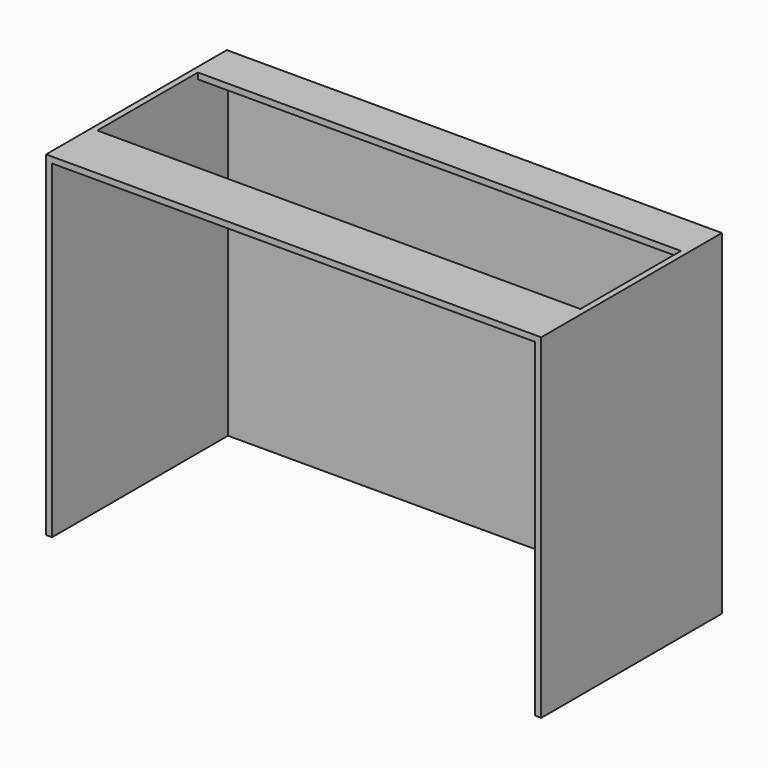
from build123d import *

# Parameters (mm, degrees)
F0_W     = 1283
F0_H     = 874
F0_H_2   = 16
F1_DEPTH = 16
F2_DEPTH = 584
F3_DEPTH = 100
F4_W     = 1283
F4_H     = 16
F5_DEPTH = 150


with BuildPart() as f1:
    # F0 (on Front) → F1 (new body)
    with BuildSketch(Plane.XZ):
        with Locations((-657.5, 437)):
            Rectangle(F0_W, F0_H)
        with Locations((-657.5, 882)):
            Rectangle(F0_W, F0_H_2)
        Polygon((-16, 0), (0, 0), (0, 890), (-16, 890), (-16, 874), align=None)
        Polygon((-1315, 0), (-1299, 0), (-1299, 874), (-1299, 890), (-1315, 890), align=None)
    extrude(amount=-F1_DEPTH)

    # F0 (on Front) → F2 (join)
    with BuildSketch(Plane.XZ):
        Polygon((-1315, 0), (-1299, 0), (-1299, 874), (-1299, 890), (-1315, 890), align=None)
        Polygon((-16, 0), (0, 0), (0, 890), (-16, 890), (-16, 874), align=None)
    extrude(amount=F2_DEPTH)

    # F0 (on Front) → F3 (join)
    with BuildSketch(Plane.XZ):
        with Locations((-657.5, 882)):
            Rectangle(F0_W, F0_H_2)
    extrude(amount=F3_DEPTH)

    # F4 (on face) → F5 (join)
    with BuildSketch(Plane.XZ.offset(584)):
        with Locations((-657.5, 882)):
            Rectangle(F4_W, F4_H)
    extrude(amount=-F5_DEPTH)


solid = f1.part
